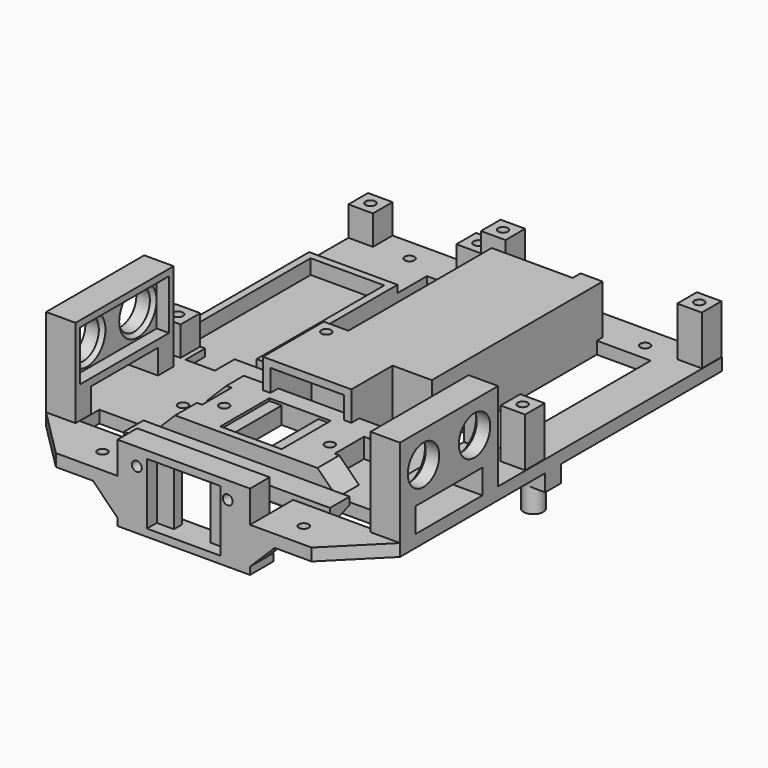
from build123d import *

# Parameters (mm, degrees)
BOX436_W                  = 28
BOX436_H                  = 75
BOX436_DEPTH              = 5
BOX435_W                  = 22
BOX435_H                  = 84
BOX435_DEPTH              = 5
CYLINDER276_R             = 4
CYLINDER276_DEPTH         = 5
CYLINDER277_R             = 4
CYLINDER277_DEPTH         = 5
CYLINDER278_R             = 4
CYLINDER278_DEPTH         = 5
CYLINDER275_R             = 4
CYLINDER275_DEPTH         = 5
CYLINDER272_R             = 4
CYLINDER272_DEPTH         = 5
CYLINDER273_R             = 4
CYLINDER273_DEPTH         = 5
CYLINDER274_R             = 4
CYLINDER274_DEPTH         = 5
CYLINDER271_R             = 4
CYLINDER271_DEPTH         = 5
CYLINDER293_R             = 2
CYLINDER293_DEPTH         = 10
CYLINDER292_R             = 2
CYLINDER292_DEPTH         = 10
CYLINDER330_R             = 2
CYLINDER330_DEPTH         = 47
CYLINDER329_R             = 2
CYLINDER329_DEPTH         = 47
CYLINDER309_R             = 2
CYLINDER309_DEPTH         = 42
CYLINDER308_R             = 2
CYLINDER308_DEPTH         = 42
CYLINDER328_R             = 2
CYLINDER328_DEPTH         = 47
CYLINDER327_R             = 2
CYLINDER327_DEPTH         = 47
BOX428_W                  = 12
BOX428_H                  = 10
BOX428_DEPTH              = 13
BOX427_W                  = 30
BOX427_H                  = 65
BOX427_DEPTH              = 13
BOX395_W                  = 120
BOX395_H                  = 10
BOX395_DEPTH              = 10
BOX378_W                  = 36
BOX378_H                  = 31
BOX378_DEPTH              = 8
BOX215_W                  = 54
BOX215_H                  = 71
BOX215_DEPTH              = 5
BOX211_W                  = 144.2
BOX211_H                  = 184
BOX211_DEPTH              = 5
CHAMFER039_SIZE           = 20
BOX441_W                  = 6
BOX441_H                  = 15
BOX441_DEPTH              = 25
BOX439_W                  = 6
BOX439_H                  = 15
BOX439_DEPTH              = 25
BOX440_W                  = 16
BOX440_H                  = 15
BOX440_DEPTH              = 5
BOX442_W                  = 16
BOX442_H                  = 15
BOX442_DEPTH              = 5
BOX399_W                  = 3
BOX399_H                  = 4
BOX399_DEPTH              = 20
BOX_W                     = 36
BOX_H                     = 80
BOX_DEPTH                 = 17
BOX359_W                  = 42
BOX359_H                  = 83
BOX359_DEPTH              = 20
BOX398_W                  = 6
BOX398_H                  = 4
BOX398_DEPTH              = 3
BOX414_W                  = 9.1
BOX414_H                  = 8
BOX414_DEPTH              = 5
BOX415_W                  = 36
BOX415_H                  = 21
BOX415_DEPTH              = 3
BOX416_W                  = 3
BOX416_H                  = 21
BOX416_DEPTH              = 25
BOX417_W                  = 3
BOX417_H                  = 21
BOX417_DEPTH              = 25
BOX413_W                  = 8.9
BOX413_H                  = 8
BOX413_DEPTH              = 5
BOX296_W                  = 36
BOX296_H                  = 3
BOX296_DEPTH              = 3
BOX324_W                  = 3
BOX324_H                  = 68
BOX324_DEPTH              = 3
BOX294_W                  = 3
BOX294_H                  = 68
BOX294_DEPTH              = 3
CYLINDER195_R             = 2
CYLINDER195_DEPTH         = 19
CYLINDER201_R             = 2
CYLINDER201_DEPTH         = 19
CYLINDER202_R             = 2
CYLINDER202_DEPTH         = 19
CYLINDER200_R             = 2
CYLINDER200_DEPTH         = 19
BOX299_W                  = 10
BOX299_H                  = 10
BOX299_DEPTH              = 12
BOX298_W                  = 10
BOX298_H                  = 10
BOX298_DEPTH              = 12
BOX301_W                  = 10
BOX301_H                  = 10
BOX301_DEPTH              = 12
BOX300_W                  = 10
BOX300_H                  = 10
BOX300_DEPTH              = 12
CYLINDER207_R             = 2
CYLINDER207_DEPTH         = 25
CYLINDER208_R             = 2
CYLINDER208_DEPTH         = 25
CYLINDER209_R             = 2
CYLINDER209_DEPTH         = 25
CYLINDER210_R             = 2
CYLINDER210_DEPTH         = 25
BOX327_W                  = 10
BOX327_H                  = 10
BOX327_DEPTH              = 20
BOX329_W                  = 10
BOX329_H                  = 10
BOX329_DEPTH              = 20
BOX330_W                  = 10
BOX330_H                  = 10
BOX330_DEPTH              = 20
BOX328_W                  = 10
BOX328_H                  = 10
BOX328_DEPTH              = 20
BOX380_W                  = 16
BOX380_H                  = 8
BOX380_DEPTH              = 6.9
CYLINDER286_R             = 4
CYLINDER286_DEPTH         = 10
BOX379_W                  = 16
BOX379_H                  = 8
BOX379_DEPTH              = 6.9
CYLINDER285_R             = 4
CYLINDER285_DEPTH         = 10
CYLINDER191_R             = 2
CYLINDER191_DEPTH         = 13
CYLINDER192_R             = 2
CYLINDER192_DEPTH         = 13
BOX101_W                  = 15
BOX101_H                  = 7
BOX101_DEPTH              = 25
BOX100_W                  = 25
BOX100_H                  = 1
BOX100_DEPTH              = 25
FUSION211_PLACEMENT_ANGLE = 90
BOX377_W                  = 74
BOX377_H                  = 35
BOX377_DEPTH              = 8
CHAMFER025_SIZE           = 7.99
BOX392_W                  = 84
BOX392_H                  = 10
BOX392_DEPTH              = 14
BOX392_PLACEMENT_ANGLE    = 70
BOX383_W                  = 84
BOX383_H                  = 10
BOX383_DEPTH              = 7
FILLET007_R               = 1
BOX404_W                  = 10
BOX404_H                  = 9
BOX404_DEPTH              = 15
CHAMFER029_SIZE           = 9.99
BOX405_W                  = 10
BOX405_H                  = 9
BOX405_DEPTH              = 15
CHAMFER030_SIZE           = 9.99
BOX403_W                  = 30
BOX403_H                  = 5
BOX403_DEPTH              = 25
CYLINDER190_R             = 2
CYLINDER190_DEPTH         = 20
CYLINDER189_R             = 2
CYLINDER189_DEPTH         = 20
BOX387_W                  = 54
BOX387_H                  = 5
BOX387_DEPTH              = 3
BOX382_W                  = 25
BOX382_H                  = 1
BOX382_DEPTH              = 25
BOX381_W                  = 15
BOX381_H                  = 15
BOX381_DEPTH              = 25
BOX343_W                  = 54
BOX343_H                  = 5
BOX343_DEPTH              = 25
BOX386_W                  = 54
BOX386_H                  = 12
BOX386_DEPTH              = 31
BOX437_W                  = 12
BOX437_H                  = 34
BOX437_DEPTH              = 10
CYLINDER071_R             = 8
CYLINDER071_DEPTH         = 15
CYLINDER070_R             = 8
CYLINDER070_DEPTH         = 15
BOX264_W                  = 45.2
BOX264_H                  = 5
BOX264_DEPTH              = 20.4
FUSION113_PLACEMENT_ANGLE = 90
BOX268_W                  = 12
BOX268_H                  = 36
BOX268_DEPTH              = 50
CHAMFER035_SIZE           = 1.5
BOX438_W                  = 12
BOX438_H                  = 34
BOX438_DEPTH              = 10
CYLINDER069_R             = 8
CYLINDER069_DEPTH         = 15
CYLINDER068_R             = 8
CYLINDER068_DEPTH         = 15
BOX263_W                  = 45.2
BOX263_H                  = 5
BOX263_DEPTH              = 20.4
FUSION112_PLACEMENT_ANGLE = 90
BOX266_W                  = 12
BOX266_H                  = 36
BOX266_DEPTH              = 50
CHAMFER038_SIZE           = 1.5


with BuildPart() as box436:
    # Box436 → Box436 (new body)
    with BuildSketch(Plane(origin=(-70, -14, 32), x_dir=(1, 0, 0), z_dir=(0, 0, 1))):
        with Locations((14, 37.5)):
            Rectangle(BOX436_W, BOX436_H)
    extrude(amount=BOX436_DEPTH)


with BuildPart() as fusion340:
    # Box435 → Box435 (new body)
    with BuildSketch(Plane(origin=(0, -24, 32), x_dir=(1, 0, 0), z_dir=(0, 0, 1))):
        with Locations((11, 42)):
            Rectangle(BOX435_W, BOX435_H)
    extrude(amount=BOX435_DEPTH)

    # Fusion340: union Box436
    add(box436.part)


with BuildPart() as cylinder276:
    # Cylinder276 → Cylinder276 (new body)
    with BuildSketch(Plane(origin=(33, -27, 32), x_dir=(1, 0, 0), z_dir=(0, 0, 1))):
        Circle(CYLINDER276_R)
    extrude(amount=CYLINDER276_DEPTH)


with BuildPart() as cylinder277:
    # Cylinder277 → Cylinder277 (new body)
    with BuildSketch(Plane(origin=(-47, 63, 32), x_dir=(1, 0, 0), z_dir=(0, 0, 1))):
        Circle(CYLINDER277_R)
    extrude(amount=CYLINDER277_DEPTH)


with BuildPart() as cylinder278:
    # Cylinder278 → Cylinder278 (new body)
    with BuildSketch(Plane(origin=(33, 63, 32), x_dir=(1, 0, 0), z_dir=(0, 0, 1))):
        Circle(CYLINDER278_R)
    extrude(amount=CYLINDER278_DEPTH)


with BuildPart() as fusion208:
    # Cylinder275 → Cylinder275 (new body)
    with BuildSketch(Plane(origin=(-47, -27, 32), x_dir=(1, 0, 0), z_dir=(0, 0, 1))):
        Circle(CYLINDER275_R)
    extrude(amount=CYLINDER275_DEPTH)

    # Fusion208: union Cylinder276, Cylinder277, Cylinder278
    add(cylinder276.part)
    add(cylinder277.part)
    add(cylinder278.part)


with BuildPart() as fusion208_1:
    # Fusion208 placement: moved
    add(fusion208.part.moved(Location((0, 8, 0))))


with BuildPart() as cylinder272:
    # Cylinder272 → Cylinder272 (new body)
    with BuildSketch(Plane(origin=(-57, -27, 32), x_dir=(1, 0, 0), z_dir=(0, 0, 1))):
        Circle(CYLINDER272_R)
    extrude(amount=CYLINDER272_DEPTH)


with BuildPart() as cylinder273:
    # Cylinder273 → Cylinder273 (new body)
    with BuildSketch(Plane(origin=(-57, 71, 32), x_dir=(1, 0, 0), z_dir=(0, 0, 1))):
        Circle(CYLINDER273_R)
    extrude(amount=CYLINDER273_DEPTH)


with BuildPart() as cylinder274:
    # Cylinder274 → Cylinder274 (new body)
    with BuildSketch(Plane(origin=(-101, 71, 32), x_dir=(1, 0, 0), z_dir=(0, 0, 1))):
        Circle(CYLINDER274_R)
    extrude(amount=CYLINDER274_DEPTH)


with BuildPart() as fusion300:
    # Cylinder271 → Cylinder271 (new body)
    with BuildSketch(Plane(origin=(-101, -27, 32), x_dir=(1, 0, 0), z_dir=(0, 0, 1))):
        Circle(CYLINDER271_R)
    extrude(amount=CYLINDER271_DEPTH)

    # Fusion198: union Cylinder272, Cylinder273, Cylinder274
    add(cylinder272.part)
    add(cylinder273.part)
    add(cylinder274.part)

    # Fusion300: union Fusion208
    add(fusion208_1.part)


with BuildPart() as cylinder293:
    # Cylinder293 → Cylinder293 (new body)
    with BuildSketch(Plane(origin=(-15, 72, 32), x_dir=(1, 0, 0), z_dir=(0, 0, 1))):
        Circle(CYLINDER293_R)
    extrude(amount=CYLINDER293_DEPTH)


with BuildPart() as fusion301:
    # Cylinder292 → Cylinder292 (new body)
    with BuildSketch(Plane(origin=(-36, 72, 32), x_dir=(1, 0, 0), z_dir=(0, 0, 1))):
        Circle(CYLINDER292_R)
    extrude(amount=CYLINDER292_DEPTH)

    # Fusion230: union Cylinder293
    add(cylinder293.part)

    # Fusion301: union Fusion300
    add(fusion300.part)


with BuildPart() as cylinder330:
    # Cylinder330 → Cylinder330 (new body)
    with BuildSketch(Plane(origin=(-75, -98, -5), x_dir=(1, 0, 0), z_dir=(0, 0, 1))):
        Circle(CYLINDER330_R)
    extrude(amount=CYLINDER330_DEPTH)


with BuildPart() as fusion317:
    # Cylinder329 → Cylinder329 (new body)
    with BuildSketch(Plane(origin=(7, -98, -5), x_dir=(1, 0, 0), z_dir=(0, 0, 1))):
        Circle(CYLINDER329_R)
    extrude(amount=CYLINDER329_DEPTH)

    # Fusion317: union Cylinder330
    add(cylinder330.part)


with BuildPart() as fusion317_1:
    # Fusion317 placement: moved
    add(fusion317.part.moved(Location((0, 41, 0))))


with BuildPart() as cylinder309:
    # Cylinder309 → Cylinder309 (new body)
    with BuildSketch(Plane(origin=(14.1, 72, -5), x_dir=(1, 0, 0), z_dir=(0, 0, 1))):
        Circle(CYLINDER309_R)
    extrude(amount=CYLINDER309_DEPTH)


with BuildPart() as fusion275:
    # Cylinder308 → Cylinder308 (new body)
    with BuildSketch(Plane(origin=(-81.9, 72, -5), x_dir=(1, 0, 0), z_dir=(0, 0, 1))):
        Circle(CYLINDER308_R)
    extrude(amount=CYLINDER308_DEPTH)

    # Fusion275: union Cylinder309
    add(cylinder309.part)


with BuildPart() as fusion275_1:
    # Fusion275 placement: moved
    add(fusion275.part.moved(Location((0, -5, 0))))


with BuildPart() as cylinder328:
    # Cylinder328 → Cylinder328 (new body)
    with BuildSketch(Plane(origin=(-75, -98, -5), x_dir=(1, 0, 0), z_dir=(0, 0, 1))):
        Circle(CYLINDER328_R)
    extrude(amount=CYLINDER328_DEPTH)


with BuildPart() as fusion328:
    # Cylinder327 → Cylinder327 (new body)
    with BuildSketch(Plane(origin=(7, -98, -5), x_dir=(1, 0, 0), z_dir=(0, 0, 1))):
        Circle(CYLINDER327_R)
    extrude(amount=CYLINDER327_DEPTH)

    # Fusion316: union Cylinder328
    add(cylinder328.part)

    # Fusion328: union Fusion317, Fusion275
    add(fusion317_1.part)
    add(fusion275_1.part)


with BuildPart() as box428:
    # Box428 → Box428 (new body)
    with BuildSketch(Plane(origin=(-85, -32, 34), x_dir=(1, 0, 0), z_dir=(0, 0, 1))):
        with Locations((6, 5)):
            Rectangle(BOX428_W, BOX428_H)
    extrude(amount=BOX428_DEPTH)


with BuildPart() as coral001:
    # Box427 → Box427 (new body)
    with BuildSketch(Plane(origin=(-94, -22, 34), x_dir=(1, 0, 0), z_dir=(0, 0, 1))):
        with Locations((15, 32.5)):
            Rectangle(BOX427_W, BOX427_H)
    extrude(amount=BOX427_DEPTH)

    # Fusion281: union Box428
    add(box428.part)


with BuildPart() as coral001_1:
    # Fusion281 placement: moved
    add(coral001.part.moved(Location((-9, 0, 0))))


with BuildPart() as box395:
    # Box395 → Box395 (new body)
    with BuildSketch(Plane(origin=(-93.9, -86, 27), x_dir=(1, 0, 0), z_dir=(0, 0, 1))):
        with Locations((60, 5)):
            Rectangle(BOX395_W, BOX395_H)
    extrude(amount=BOX395_DEPTH)


with BuildPart() as box378:
    # Box378 → Box378 (new body)
    with BuildSketch(Plane(origin=(-52, -55, 32), x_dir=(1, 0, 0), z_dir=(0, 0, 1))):
        with Locations((18, 15.5)):
            Rectangle(BOX378_W, BOX378_H)
    extrude(amount=BOX378_DEPTH)


with BuildPart() as box215:
    # Box215 → Box215 (new body)
    with BuildSketch(Plane(origin=(-60.9, -108, 32), x_dir=(1, 0, 0), z_dir=(0, 0, 1))):
        with Locations((27, 35.5)):
            Rectangle(BOX215_W, BOX215_H)
    extrude(amount=BOX215_DEPTH)


with BuildPart() as cut349:
    # Box211 → Box211 (new body)
    with BuildSketch(Plane(origin=(-106, -108, 32), x_dir=(1, 0, 0), z_dir=(0, 0, 1))):
        with Locations((72.1, 92)):
            Rectangle(BOX211_W, BOX211_H)
    extrude(amount=BOX211_DEPTH)

    # Cut257: cut Box215
    add(box215.part, mode=Mode.SUBTRACT)

    # Cut324: cut Box378
    add(box378.part, mode=Mode.SUBTRACT)

    # Cut345: cut Box395
    add(box395.part, mode=Mode.SUBTRACT)

    # Cut347: cut  Coral001
    add(coral001_1.part, mode=Mode.SUBTRACT)

    # Chamfer039
    chamfer039_edges = [cut349.edges().sort_by_distance(p)[0] for p in [
        (-106, -108, 34.5),
        (38.2, -108, 34.5),
    ]]
    chamfer(chamfer039_edges, length=CHAMFER039_SIZE)

    # Cut349: cut Fusion328
    add(fusion328.part, mode=Mode.SUBTRACT)


with BuildPart() as box441:
    # Box441 → Box441 (new body)
    with BuildSketch(Plane(origin=(-6.9, -64.9, 37), x_dir=(1, 0, 0), z_dir=(0, 0, 1))):
        with Locations((3, 7.5)):
            Rectangle(BOX441_W, BOX441_H)
    extrude(amount=BOX441_DEPTH)


with BuildPart() as box439:
    # Box439 → Box439 (new body)
    with BuildSketch(Plane(origin=(-66.9, -64.9, 37), x_dir=(1, 0, 0), z_dir=(0, 0, 1))):
        with Locations((3, 7.5)):
            Rectangle(BOX439_W, BOX439_H)
    extrude(amount=BOX439_DEPTH)


with BuildPart() as box440:
    # Box440 → Box440 (new body)
    with BuildSketch(Plane(origin=(-82.9, -64.9, 37), x_dir=(1, 0, 0), z_dir=(0, 0, 1))):
        with Locations((8, 7.5)):
            Rectangle(BOX440_W, BOX440_H)
    extrude(amount=BOX440_DEPTH)


with BuildPart() as fusion338:
    # Box442 → Box442 (new body)
    with BuildSketch(Plane(origin=(-0.9, -64.9, 37), x_dir=(1, 0, 0), z_dir=(0, 0, 1))):
        with Locations((8, 7.5)):
            Rectangle(BOX442_W, BOX442_H)
    extrude(amount=BOX442_DEPTH)

    # Fusion338: union Box441, Box439, Box440
    add(box441.part)
    add(box439.part)
    add(box440.part)


with BuildPart() as box399:
    # Box399 → Box399 (new body)
    with BuildSketch(Plane(origin=(-3, 59, 37), x_dir=(1, 0, 0), z_dir=(0, 0, 1))):
        with Locations((1.5, 2)):
            Rectangle(BOX399_W, BOX399_H)
    extrude(amount=BOX399_DEPTH)


with BuildPart() as box:
    # Box → Box (new body)
    with BuildSketch(Plane(origin=(-11, -17, 37), x_dir=(1, 0, 0), z_dir=(0, 0, 1))):
        with Locations((18, 40)):
            Rectangle(BOX_W, BOX_H)
    extrude(amount=BOX_DEPTH)


with BuildPart() as cut250:
    # Box359 → Box359 (new body)
    with BuildSketch(Plane(origin=(-14, -20, 37), x_dir=(1, 0, 0), z_dir=(0, 0, 1))):
        with Locations((21, 41.5)):
            Rectangle(BOX359_W, BOX359_H)
    extrude(amount=BOX359_DEPTH)

    # Cut250: cut Box
    add(box.part, mode=Mode.SUBTRACT)


with BuildPart() as cut250_1:
    # Cut250 placement: moved
    add(cut250.part.moved(Location((-28, -4, 0))))


with BuildPart() as fusion228:
    # Box398 → Box398 (new body)
    with BuildSketch(Plane(origin=(-9, 59, 54), x_dir=(1, 0, 0), z_dir=(0, 0, 1))):
        with Locations((3, 2)):
            Rectangle(BOX398_W, BOX398_H)
    extrude(amount=BOX398_DEPTH)

    # Fusion228: union Box399, Cut250
    add(box399.part)
    add(cut250_1.part)


with BuildPart() as box414:
    # Box414 → Box414 (new body)
    with BuildSketch(Plane(origin=(-16, -45, 32), x_dir=(1, 0, 0), z_dir=(0, 0, 1))):
        with Locations((4.55, 4)):
            Rectangle(BOX414_W, BOX414_H)
    extrude(amount=BOX414_DEPTH)


with BuildPart() as box415:
    # Box415 → Box415 (new body)
    with BuildSketch(Plane(origin=(-52, -45, 54), x_dir=(1, 0, 0), z_dir=(0, 0, 1))):
        with Locations((18, 10.5)):
            Rectangle(BOX415_W, BOX415_H)
    extrude(amount=BOX415_DEPTH)


with BuildPart() as box416:
    # Box416 → Box416 (new body)
    with BuildSketch(Plane(origin=(-52, -45, 32), x_dir=(1, 0, 0), z_dir=(0, 0, 1))):
        with Locations((1.5, 10.5)):
            Rectangle(BOX416_W, BOX416_H)
    extrude(amount=BOX416_DEPTH)


with BuildPart() as box417:
    # Box417 → Box417 (new body)
    with BuildSketch(Plane(origin=(-19, -45, 32), x_dir=(1, 0, 0), z_dir=(0, 0, 1))):
        with Locations((1.5, 10.5)):
            Rectangle(BOX417_W, BOX417_H)
    extrude(amount=BOX417_DEPTH)


with BuildPart() as fusion257:
    # Box413 → Box413 (new body)
    with BuildSketch(Plane(origin=(-60.9, -45, 32), x_dir=(1, 0, 0), z_dir=(0, 0, 1))):
        with Locations((4.45, 4)):
            Rectangle(BOX413_W, BOX413_H)
    extrude(amount=BOX413_DEPTH)

    # Fusion257: union Box414, Box415, Box416, Box417
    add(box414.part)
    add(box415.part)
    add(box416.part)
    add(box417.part)


with BuildPart() as box296:
    # Box296 → Box296 (new body)
    with BuildSketch(Plane(origin=(-90, 43, 37), x_dir=(1, 0, 0), z_dir=(0, 0, 1))):
        with Locations((18, 1.5)):
            Rectangle(BOX296_W, BOX296_H)
    extrude(amount=BOX296_DEPTH)


with BuildPart() as box324:
    # Box324 → Box324 (new body)
    with BuildSketch(Plane(origin=(-90, -22, 37), x_dir=(1, 0, 0), z_dir=(0, 0, 1))):
        with Locations((1.5, 34)):
            Rectangle(BOX324_W, BOX324_H)
    extrude(amount=BOX324_DEPTH)


with BuildPart() as fusion336:
    # Box294 → Box294 (new body)
    with BuildSketch(Plane(origin=(-57, -22, 37), x_dir=(1, 0, 0), z_dir=(0, 0, 1))):
        with Locations((1.5, 34)):
            Rectangle(BOX294_W, BOX294_H)
    extrude(amount=BOX294_DEPTH)

    # Fusion192: union Box296, Box324
    add(box296.part)
    add(box324.part)


with BuildPart() as fusion336_1:
    # Fusion192 placement: moved
    add(fusion336.part.moved(Location((-16, 0, 0))))

    # Fusion336: union Fusion228, Fusion257
    add(fusion228.part)
    add(fusion257.part)


with BuildPart() as cylinder195:
    # Cylinder195 → Cylinder195 (new body)
    with BuildSketch(Plane(origin=(-101, -27, 32), x_dir=(1, 0, 0), z_dir=(0, 0, 1))):
        Circle(CYLINDER195_R)
    extrude(amount=CYLINDER195_DEPTH)


with BuildPart() as cylinder201:
    # Cylinder201 → Cylinder201 (new body)
    with BuildSketch(Plane(origin=(-101, 71, 32), x_dir=(1, 0, 0), z_dir=(0, 0, 1))):
        Circle(CYLINDER201_R)
    extrude(amount=CYLINDER201_DEPTH)


with BuildPart() as cylinder202:
    # Cylinder202 → Cylinder202 (new body)
    with BuildSketch(Plane(origin=(-57, 71, 32), x_dir=(1, 0, 0), z_dir=(0, 0, 1))):
        Circle(CYLINDER202_R)
    extrude(amount=CYLINDER202_DEPTH)


with BuildPart() as fusion199:
    # Cylinder200 → Cylinder200 (new body)
    with BuildSketch(Plane(origin=(-57, -27, 32), x_dir=(1, 0, 0), z_dir=(0, 0, 1))):
        Circle(CYLINDER200_R)
    extrude(amount=CYLINDER200_DEPTH)

    # Fusion199: union Cylinder195, Cylinder201, Cylinder202
    add(cylinder195.part)
    add(cylinder201.part)
    add(cylinder202.part)


with BuildPart() as box299:
    # Box299 → Box299 (new body)
    with BuildSketch(Plane(origin=(-62, -32, 37), x_dir=(1, 0, 0), z_dir=(0, 0, 1))):
        with Locations((5, 5)):
            Rectangle(BOX299_W, BOX299_H)
    extrude(amount=BOX299_DEPTH)


with BuildPart() as box298:
    # Box298 → Box298 (new body)
    with BuildSketch(Plane(origin=(-62, 66, 37), x_dir=(1, 0, 0), z_dir=(0, 0, 1))):
        with Locations((5, 5)):
            Rectangle(BOX298_W, BOX298_H)
    extrude(amount=BOX298_DEPTH)


with BuildPart() as box301:
    # Box301 → Box301 (new body)
    with BuildSketch(Plane(origin=(-106, 66, 37), x_dir=(1, 0, 0), z_dir=(0, 0, 1))):
        with Locations((5, 5)):
            Rectangle(BOX301_W, BOX301_H)
    extrude(amount=BOX301_DEPTH)


with BuildPart() as cut328:
    # Box300 → Box300 (new body)
    with BuildSketch(Plane(origin=(-106, -32, 37), x_dir=(1, 0, 0), z_dir=(0, 0, 1))):
        with Locations((5, 5)):
            Rectangle(BOX300_W, BOX300_H)
    extrude(amount=BOX300_DEPTH)

    # Fusion200: union Box299, Box298, Box301
    add(box299.part)
    add(box298.part)
    add(box301.part)

    # Cut328: cut Fusion199
    add(fusion199.part, mode=Mode.SUBTRACT)


with BuildPart() as cylinder207:
    # Cylinder207 → Cylinder207 (new body)
    with BuildSketch(Plane(origin=(33, -27, 32), x_dir=(1, 0, 0), z_dir=(0, 0, 1))):
        Circle(CYLINDER207_R)
    extrude(amount=CYLINDER207_DEPTH)


with BuildPart() as cylinder208:
    # Cylinder208 → Cylinder208 (new body)
    with BuildSketch(Plane(origin=(33, 63, 32), x_dir=(1, 0, 0), z_dir=(0, 0, 1))):
        Circle(CYLINDER208_R)
    extrude(amount=CYLINDER208_DEPTH)


with BuildPart() as cylinder209:
    # Cylinder209 → Cylinder209 (new body)
    with BuildSketch(Plane(origin=(-47, 63, 32), x_dir=(1, 0, 0), z_dir=(0, 0, 1))):
        Circle(CYLINDER209_R)
    extrude(amount=CYLINDER209_DEPTH)


with BuildPart() as fusion207:
    # Cylinder210 → Cylinder210 (new body)
    with BuildSketch(Plane(origin=(-47, -27, 32), x_dir=(1, 0, 0), z_dir=(0, 0, 1))):
        Circle(CYLINDER210_R)
    extrude(amount=CYLINDER210_DEPTH)

    # Fusion207: union Cylinder207, Cylinder208, Cylinder209
    add(cylinder207.part)
    add(cylinder208.part)
    add(cylinder209.part)


with BuildPart() as box327:
    # Box327 → Box327 (new body)
    with BuildSketch(Plane(origin=(28, -32, 37), x_dir=(1, 0, 0), z_dir=(0, 0, 1))):
        with Locations((5, 5)):
            Rectangle(BOX327_W, BOX327_H)
    extrude(amount=BOX327_DEPTH)


with BuildPart() as box329:
    # Box329 → Box329 (new body)
    with BuildSketch(Plane(origin=(28, 58, 37), x_dir=(1, 0, 0), z_dir=(0, 0, 1))):
        with Locations((5, 5)):
            Rectangle(BOX329_W, BOX329_H)
    extrude(amount=BOX329_DEPTH)


with BuildPart() as box330:
    # Box330 → Box330 (new body)
    with BuildSketch(Plane(origin=(-52, 58, 37), x_dir=(1, 0, 0), z_dir=(0, 0, 1))):
        with Locations((5, 5)):
            Rectangle(BOX330_W, BOX330_H)
    extrude(amount=BOX330_DEPTH)


with BuildPart() as cut322:
    # Box328 → Box328 (new body)
    with BuildSketch(Plane(origin=(-52, -32, 37), x_dir=(1, 0, 0), z_dir=(0, 0, 1))):
        with Locations((5, 5)):
            Rectangle(BOX328_W, BOX328_H)
    extrude(amount=BOX328_DEPTH)

    # Fusion204: union Box327, Box329, Box330
    add(box327.part)
    add(box329.part)
    add(box330.part)

    # Cut322: cut Fusion207
    add(fusion207.part, mode=Mode.SUBTRACT)


with BuildPart() as cut322_1:
    # Cut322 placement: moved
    add(cut322.part.moved(Location((0, 8, 0))))


with BuildPart() as box380:
    # Box380 → Box380 (new body)
    with BuildSketch(Plane(origin=(-106, -14, 25.1), x_dir=(1, 0, 0), z_dir=(0, 0, 1))):
        with Locations((8, 4)):
            Rectangle(BOX380_W, BOX380_H)
    extrude(amount=BOX380_DEPTH)


with BuildPart() as fusion218:
    # Cylinder286 → Cylinder286 (new body)
    with BuildSketch(Plane(origin=(-98, -10, 15.1), x_dir=(1, 0, 0), z_dir=(0, 0, 1))):
        Circle(CYLINDER286_R)
    extrude(amount=CYLINDER286_DEPTH)

    # Fusion218: union Box380
    add(box380.part)


with BuildPart() as box379:
    # Box379 → Box379 (new body)
    with BuildSketch(Plane(origin=(22.2, -14, 25.1), x_dir=(1, 0, 0), z_dir=(0, 0, 1))):
        with Locations((8, 4)):
            Rectangle(BOX379_W, BOX379_H)
    extrude(amount=BOX379_DEPTH)


with BuildPart() as fusion305:
    # Cylinder285 → Cylinder285 (new body)
    with BuildSketch(Plane(origin=(30.2, -10, 15.1), x_dir=(1, 0, 0), z_dir=(0, 0, 1))):
        Circle(CYLINDER285_R)
    extrude(amount=CYLINDER285_DEPTH)

    # Fusion217: union Box379
    add(box379.part)

    # Fusion219: union Fusion218
    add(fusion218.part)

    # Fusion304: union Cut322
    add(cut322_1.part)

    # Fusion305: union Cut328
    add(cut328.part)


with BuildPart() as cylinder191:
    # Cylinder191 → Cylinder191 (new body)
    with BuildSketch(Plane(origin=(-55, -69, -5), x_dir=(1, 0, 0), z_dir=(0, 0, 1))):
        Circle(CYLINDER191_R)
    extrude(amount=CYLINDER191_DEPTH)


with BuildPart() as fusion209:
    # Cylinder192 → Cylinder192 (new body)
    with BuildSketch(Plane(origin=(-12, -69, -5), x_dir=(1, 0, 0), z_dir=(0, 0, 1))):
        Circle(CYLINDER192_R)
    extrude(amount=CYLINDER192_DEPTH)

    # Fusion209: union Cylinder191
    add(cylinder191.part)


with BuildPart() as fusion209_1:
    # Fusion209 placement: moved
    add(fusion209.part.moved(Location((0, 5, 42))))


with BuildPart() as box101:
    # Box101 → Box101 (new body)
    with BuildSketch(Plane(origin=(-33.5, -101, 16), x_dir=(1, 0, 0), z_dir=(0, 0, 1))):
        with Locations((7.5, 3.5)):
            Rectangle(BOX101_W, BOX101_H)
    extrude(amount=BOX101_DEPTH)


with BuildPart() as fusion211:
    # Box100 → Box100 (new body)
    with BuildSketch(Plane(origin=(-38.5, -94, 16), x_dir=(1, 0, 0), z_dir=(0, 0, 1))):
        with Locations((12.5, 0.5)):
            Rectangle(BOX100_W, BOX100_H)
    extrude(amount=BOX100_DEPTH)

    # Fusion211: union Box101
    add(box101.part)


with BuildPart() as fusion211_1:
    # Fusion211 placement: moved
    add(fusion211.part.moved(Location((-8.5, -35, 138))).rotate(Axis((-8.5, -35, 138), (1, 0, 0)), FUSION211_PLACEMENT_ANGLE))


with BuildPart() as chamfer025:
    # Box377 → Box377 (new body)
    with BuildSketch(Plane(origin=(-71, -79, 37), x_dir=(1, 0, 0), z_dir=(0, 0, 1))):
        with Locations((37, 17.5)):
            Rectangle(BOX377_W, BOX377_H)
    extrude(amount=BOX377_DEPTH)

    # Cut259: cut Fusion211
    add(fusion211_1.part, mode=Mode.SUBTRACT)

    # Cut260: cut Fusion209
    add(fusion209_1.part, mode=Mode.SUBTRACT)


with BuildPart() as chamfer025_1:
    # Cut260 placement: moved
    add(chamfer025.part.moved(Location((0, 3, 0))))

    # Chamfer025
    chamfer025_edges = [chamfer025_1.edges().sort_by_distance(p)[0] for p in [
        (-71, -58.5, 45),
        (3, -58.5, 45),
    ]]
    chamfer(chamfer025_edges, length=CHAMFER025_SIZE)


with BuildPart() as box392:
    # Box392 → Box392 (new body)
    with BuildSketch(Plane.XY):
        with Locations((42, 5)):
            Rectangle(BOX392_W, BOX392_H)
    extrude(amount=BOX392_DEPTH)


with BuildPart() as box392_1:
    # Box392 placement: moved
    add(box392.part.moved(Location((-75.9, -87, 32))).rotate(Axis((-75.9, -87, 32), (-1, 0, 0)), BOX392_PLACEMENT_ANGLE))


with BuildPart() as fillet007:
    # Box383 → Box383 (new body)
    with BuildSketch(Plane(origin=(-75.9, -86, 32), x_dir=(1, 0, 0), z_dir=(0, 0, 1))):
        with Locations((42, 5)):
            Rectangle(BOX383_W, BOX383_H)
    extrude(amount=BOX383_DEPTH)

    # Cut273: cut Box392
    add(box392_1.part, mode=Mode.SUBTRACT)

    # Fillet007
    fillet007_edges = [fillet007.edges().sort_by_distance(p)[0] for p in [
        (-33.9, -86, 32.36397),
    ]]
    fillet(fillet007_edges, radius=FILLET007_R)


with BuildPart() as chamfer029:
    # Box404 → Box404 (new body)
    with BuildSketch(Plane(origin=(-70.9, -108, 22), x_dir=(1, 0, 0), z_dir=(0, 0, 1))):
        with Locations((5, 4.5)):
            Rectangle(BOX404_W, BOX404_H)
    extrude(amount=BOX404_DEPTH)

    # Chamfer029
    chamfer029_edges = [chamfer029.edges().sort_by_distance(p)[0] for p in [
        (-70.9, -103.5, 22),
    ]]
    chamfer(chamfer029_edges, length=CHAMFER029_SIZE)


with BuildPart() as chamfer030:
    # Box405 → Box405 (new body)
    with BuildSketch(Plane(origin=(-6.9, -108, 22), x_dir=(1, 0, 0), z_dir=(0, 0, 1))):
        with Locations((5, 4.5)):
            Rectangle(BOX405_W, BOX405_H)
    extrude(amount=BOX405_DEPTH)

    # Chamfer030
    chamfer030_edges = [chamfer030.edges().sort_by_distance(p)[0] for p in [
        (3.1, -103.5, 22),
    ]]
    chamfer(chamfer030_edges, length=CHAMFER030_SIZE)


with BuildPart() as box403:
    # Box403 → Box403 (new body)
    with BuildSketch(Plane(origin=(-48.9, -108, 22), x_dir=(1, 0, 0), z_dir=(0, 0, 1))):
        with Locations((15, 2.5)):
            Rectangle(BOX403_W, BOX403_H)
    extrude(amount=BOX403_DEPTH)


with BuildPart() as cylinder190:
    # Cylinder190 → Cylinder190 (new body)
    with BuildSketch(Plane(origin=(-16, -88, 43), x_dir=(1, 0, 0), z_dir=(0, -1, 0))):
        Circle(CYLINDER190_R)
    extrude(amount=CYLINDER190_DEPTH)


with BuildPart() as fusion232:
    # Cylinder189 → Cylinder189 (new body)
    with BuildSketch(Plane(origin=(-53, -88, 43), x_dir=(1, 0, 0), z_dir=(0, -1, 0))):
        Circle(CYLINDER189_R)
    extrude(amount=CYLINDER189_DEPTH)

    # Fusion232: union Cylinder190
    add(cylinder190.part)


with BuildPart() as box387:
    # Box387 → Box387 (new body)
    with BuildSketch(Plane(origin=(-60.9, -98, 47), x_dir=(1, 0, 0), z_dir=(0, 0, 1))):
        with Locations((27, 2.5)):
            Rectangle(BOX387_W, BOX387_H)
    extrude(amount=BOX387_DEPTH)


with BuildPart() as box382:
    # Box382 → Box382 (new body)
    with BuildSketch(Plane(origin=(-46.9, -94, 30), x_dir=(1, 0, 0), z_dir=(0, 0, 1))):
        with Locations((12.5, 0.5)):
            Rectangle(BOX382_W, BOX382_H)
    extrude(amount=BOX382_DEPTH)


with BuildPart() as fusion221:
    # Box381 → Box381 (new body)
    with BuildSketch(Plane(origin=(-41.9, -108, 30), x_dir=(1, 0, 0), z_dir=(0, 0, 1))):
        with Locations((7.5, 7.5)):
            Rectangle(BOX381_W, BOX381_H)
    extrude(amount=BOX381_DEPTH)

    # Fusion221: union Box382
    add(box382.part)


with BuildPart() as fusion221_1:
    # Fusion221 placement: moved
    add(fusion221.part.moved(Location((0, -5, -8))))


with BuildPart() as box343:
    # Box343 → Box343 (new body)
    with BuildSketch(Plane(origin=(-60.9, -98, 22), x_dir=(1, 0, 0), z_dir=(0, 0, 1))):
        with Locations((27, 2.5)):
            Rectangle(BOX343_W, BOX343_H)
    extrude(amount=BOX343_DEPTH)


with BuildPart() as fusion244:
    # Box386 → Box386 (new body)
    with BuildSketch(Plane(origin=(-60.9, -108, 19), x_dir=(1, 0, 0), z_dir=(0, 0, 1))):
        with Locations((27, 6)):
            Rectangle(BOX386_W, BOX386_H)
    extrude(amount=BOX386_DEPTH)

    # Cut269: cut Box343
    add(box343.part, mode=Mode.SUBTRACT)

    # Cut270: cut Fusion221
    add(fusion221_1.part, mode=Mode.SUBTRACT)

    # Cut279: cut Box387
    add(box387.part, mode=Mode.SUBTRACT)

    # Cut281: cut Fusion232
    add(fusion232.part, mode=Mode.SUBTRACT)

    # Cut282: cut Box403
    add(box403.part, mode=Mode.SUBTRACT)

    # Fusion244: union Chamfer029, Chamfer030
    add(chamfer029.part)
    add(chamfer030.part)


with BuildPart() as box437:
    # Box437 → Box437 (new body)
    with BuildSketch(Plane(origin=(26.2, -90, 37), x_dir=(1, 0, 0), z_dir=(0, 0, 1))):
        with Locations((6, 17)):
            Rectangle(BOX437_W, BOX437_H)
    extrude(amount=BOX437_DEPTH)


with BuildPart() as cylinder071:
    # Cylinder071 → Cylinder071 (new body)
    with BuildSketch(Plane(origin=(-39, -93, 20.2), x_dir=(1, 0, 0), z_dir=(0, -1, 0))):
        Circle(CYLINDER071_R)
    extrude(amount=CYLINDER071_DEPTH)


with BuildPart() as cylinder070:
    # Cylinder070 → Cylinder070 (new body)
    with BuildSketch(Plane(origin=(-13, -93, 20.2), x_dir=(1, 0, 0), z_dir=(0, -1, 0))):
        Circle(CYLINDER070_R)
    extrude(amount=CYLINDER070_DEPTH)


with BuildPart() as fusion113:
    # Box264 → Box264 (new body)
    with BuildSketch(Plane(origin=(-48.6, -98, 10), x_dir=(1, 0, 0), z_dir=(0, 0, 1))):
        with Locations((22.6, 2.5)):
            Rectangle(BOX264_W, BOX264_H)
    extrude(amount=BOX264_DEPTH)

    # Fusion113: union Cylinder071, Cylinder070
    add(cylinder071.part)
    add(cylinder070.part)


with BuildPart() as fusion113_1:
    # Fusion113 placement: moved
    add(fusion113.part.moved(Location((-66.8, -57, 40))).rotate(Axis((-66.8, -57, 40), (0, 0, 1)), FUSION113_PLACEMENT_ANGLE))


with BuildPart() as cut344:
    # Box268 → Box268 (new body)
    with BuildSketch(Plane(origin=(26.2, -58, 37), x_dir=(1, 0, 0), z_dir=(0, -1, 0))):
        with Locations((6, 18)):
            Rectangle(BOX268_W, BOX268_H)
    extrude(amount=BOX268_DEPTH)

    # Cut332: cut Fusion113
    add(fusion113_1.part, mode=Mode.SUBTRACT)

    # Chamfer035
    chamfer035_edges = [cut344.edges().sort_by_distance(p)[0] for p in [
        (31.2, -104, 60.2),
        (31.2, -78, 60.2),
    ]]
    chamfer(chamfer035_edges, length=CHAMFER035_SIZE)


with BuildPart() as cut344_1:
    # Chamfer035 placement: moved
    add(cut344.part.moved(Location((0, 10, 0))))

    # Cut344: cut Box437
    add(box437.part, mode=Mode.SUBTRACT)


with BuildPart() as cut344_2:
    # Cut344 placement: moved
    add(cut344_1.part.moved(Location((0, 10, 0))))


with BuildPart() as box438:
    # Box438 → Box438 (new body)
    with BuildSketch(Plane(origin=(-106, -90, 37), x_dir=(1, 0, 0), z_dir=(0, 0, 1))):
        with Locations((6, 17)):
            Rectangle(BOX438_W, BOX438_H)
    extrude(amount=BOX438_DEPTH)


with BuildPart() as cylinder069:
    # Cylinder069 → Cylinder069 (new body)
    with BuildSketch(Plane(origin=(-39, -93, 20.2), x_dir=(1, 0, 0), z_dir=(0, -1, 0))):
        Circle(CYLINDER069_R)
    extrude(amount=CYLINDER069_DEPTH)


with BuildPart() as cylinder068:
    # Cylinder068 → Cylinder068 (new body)
    with BuildSketch(Plane(origin=(-13, -93, 20.2), x_dir=(1, 0, 0), z_dir=(0, -1, 0))):
        Circle(CYLINDER068_R)
    extrude(amount=CYLINDER068_DEPTH)


with BuildPart() as fusion112:
    # Box263 → Box263 (new body)
    with BuildSketch(Plane(origin=(-48.6, -98, 10), x_dir=(1, 0, 0), z_dir=(0, 0, 1))):
        with Locations((22.6, 2.5)):
            Rectangle(BOX263_W, BOX263_H)
    extrude(amount=BOX263_DEPTH)

    # Fusion112: union Cylinder069, Cylinder068
    add(cylinder069.part)
    add(cylinder068.part)


with BuildPart() as fusion112_1:
    # Fusion112 placement: moved
    add(fusion112.part.moved(Location((-1, -109, 40))).rotate(Axis((-1, -109, 40), (0, 0, -1)), FUSION112_PLACEMENT_ANGLE))


with BuildPart() as cut351:
    # Box266 → Box266 (new body)
    with BuildSketch(Plane(origin=(-106, -58, 37), x_dir=(1, 0, 0), z_dir=(0, -1, 0))):
        with Locations((6, 18)):
            Rectangle(BOX266_W, BOX266_H)
    extrude(amount=BOX266_DEPTH)

    # Cut333: cut Fusion112
    add(fusion112_1.part, mode=Mode.SUBTRACT)

    # Chamfer038
    chamfer038_edges = [cut351.edges().sort_by_distance(p)[0] for p in [
        (-99, -88, 60.2),
        (-99, -62, 60.2),
    ]]
    chamfer(chamfer038_edges, length=CHAMFER038_SIZE)


with BuildPart() as cut351_1:
    # Chamfer038 placement: moved
    add(cut351.part.moved(Location((0, 10, 0))))

    # Cut346: cut Box438
    add(box438.part, mode=Mode.SUBTRACT)


with BuildPart() as cut351_2:
    # Cut346 placement: moved
    add(cut351_1.part.moved(Location((0, 10, 0))))

    # Fusion335: union Chamfer025, Fillet007, Fusion244, Cut344
    add(chamfer025_1.part)
    add(fillet007.part)
    add(fusion244.part)
    add(cut344_2.part)

    # Fusion337: union Fusion336, Fusion305
    add(fusion336_1.part)
    add(fusion305.part)

    # Cut348: cut Fusion338
    add(fusion338.part, mode=Mode.SUBTRACT)

    # Fusion339: union Cut349
    add(cut349.part)

    # Cut350: cut Fusion301
    add(fusion301.part, mode=Mode.SUBTRACT)

    # Cut351: cut Fusion340
    add(fusion340.part, mode=Mode.SUBTRACT)


solid = cut351_2.part
